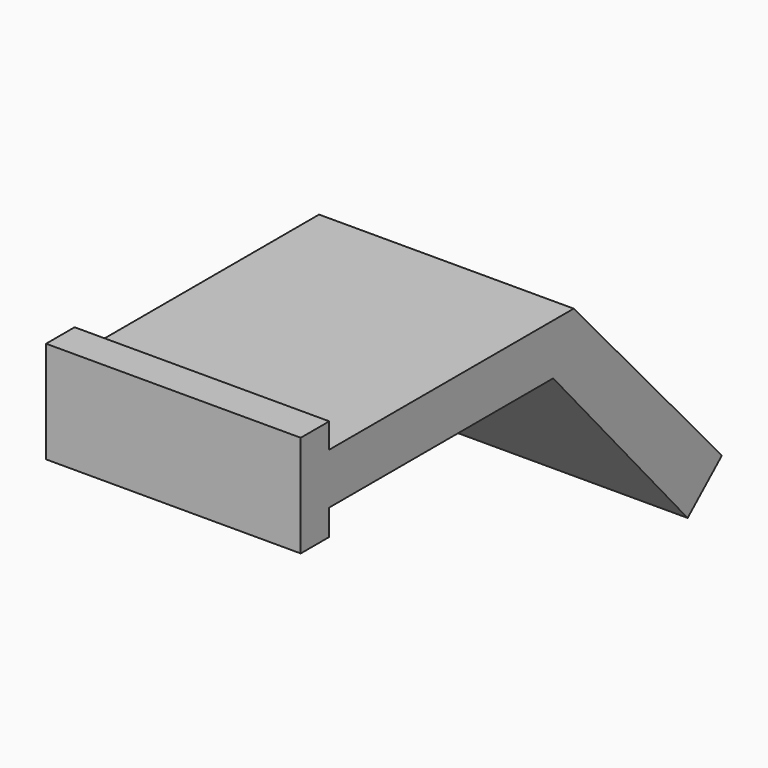
from build123d import *

# Parameters (mm, degrees)
F1_DEPTH = 50


with BuildPart() as f1:
    # F0 (on Right) → F1 (new body)
    with BuildSketch(Plane.YZ):
        Polygon((17.918346, 31.789561), (12.879838, 21.789561), (45.883075, -15.770874), (54.296613, -8.378149), align=None)
        Polygon((-42.081654, 31.789561), (-42.081654, 21.789561), (12.879838, 21.789561), (17.918346, 31.789561), align=None)
        Polygon((-42.081654, 16.701721), (-42.081654, 21.789561), (-42.081654, 31.789561), (-42.081654, 36.701721), (-49.081654, 36.701721), (-49.081654, 16.701721), align=None)
    extrude(amount=F1_DEPTH)


solid = f1.part
